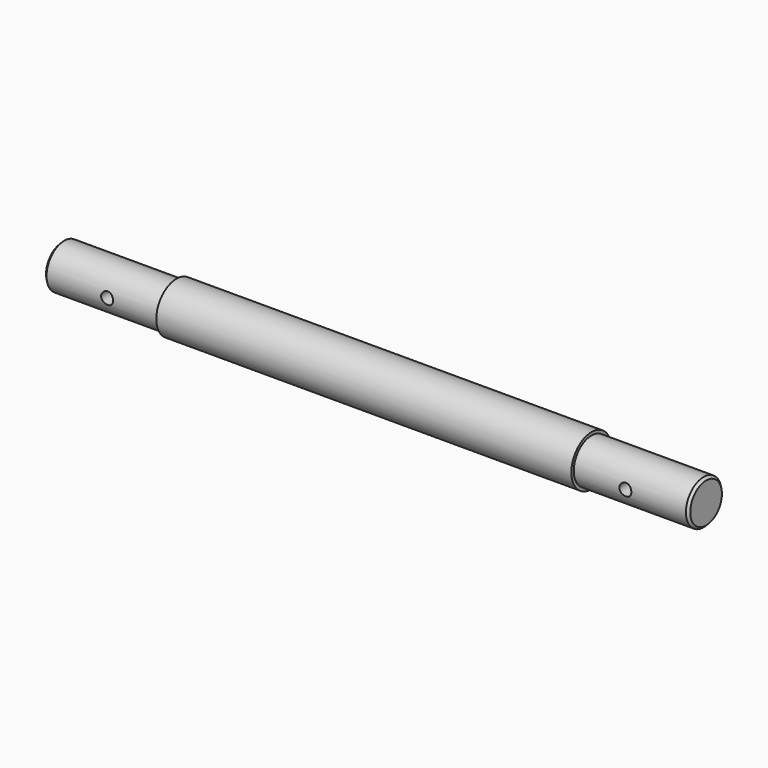
from build123d import *

# Parameters (mm, degrees)
F0_R     = 18.5
F1_DEPTH = 268.5
F2_R     = 5
F3_DEPTH = 25
F4_SIZE  = 2
F5_R     = 21
F6_DEPTH = 173


with BuildPart() as f1:
    # F0 (on Right) → F1 (new body, symmetric)
    with BuildSketch(Plane.YZ):
        Circle(F0_R)
    extrude(amount=F1_DEPTH, both=True)

    # F2 (on Front) → F3 (cut, symmetric)
    with BuildSketch(Plane.XZ):
        with Locations((-216, 0)):
            Circle(F2_R)
        with Locations((216, 0)):
            Circle(F2_R)
    extrude(amount=F3_DEPTH, both=True, mode=Mode.SUBTRACT)

    # F4
    f4_edges = [f1.edges().sort_by_distance(p)[0] for p in [
        (-268.5, -18.5, 0),
        (268.5, -18.5, 0),
    ]]
    chamfer(f4_edges, length=F4_SIZE)

    # F5 (on Right) → F6 (join, symmetric)
    with BuildSketch(Plane.YZ):
        Circle(F5_R)
    extrude(amount=F6_DEPTH, both=True)


solid = f1.part
